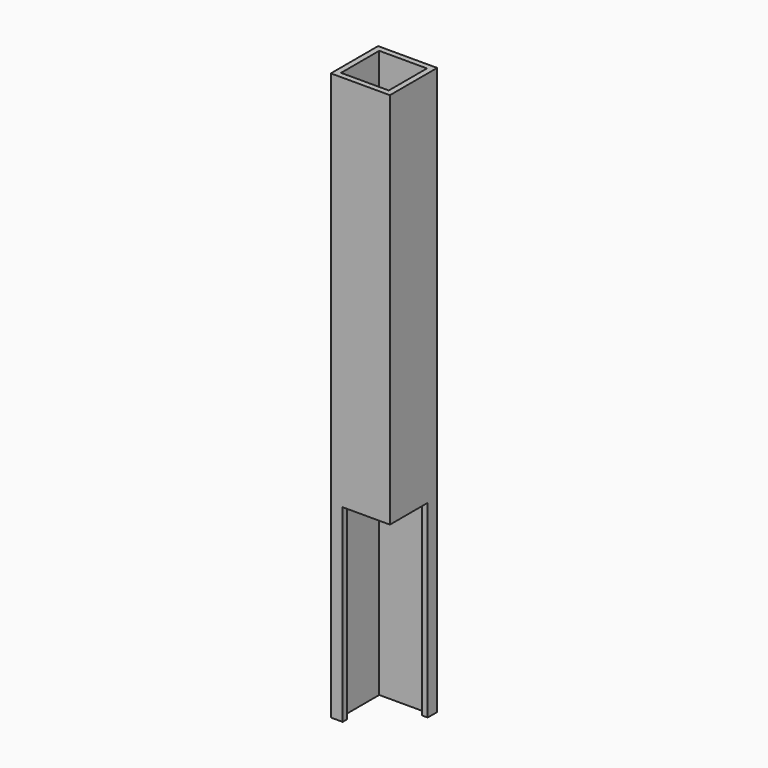
from build123d import *

# Parameters (mm, degrees)
F0_W     = 31.75
F0_H     = 31.750008
F0_W_2   = 25.654
F0_H_2   = 25.654008
F1_DEPTH = 304.8
F2_W     = 25.4
F2_H     = 101.6
F3_DEPTH = 25.4


with BuildPart() as f1:
    # F0 (on Top) → F1 (new body)
    with BuildSketch(Plane.XY):
        Rectangle(F0_W, F0_H)
        Rectangle(F0_W_2, F0_H_2, mode=Mode.SUBTRACT)
    extrude(amount=F1_DEPTH)

    # F2 (on face) → F3 (cut)
    with BuildSketch(Plane.XZ.offset(15.875004)):
        with Locations((3.175, 50.8)):
            Rectangle(F2_W, F2_H)
    extrude(amount=-F3_DEPTH, mode=Mode.SUBTRACT)


solid = f1.part
